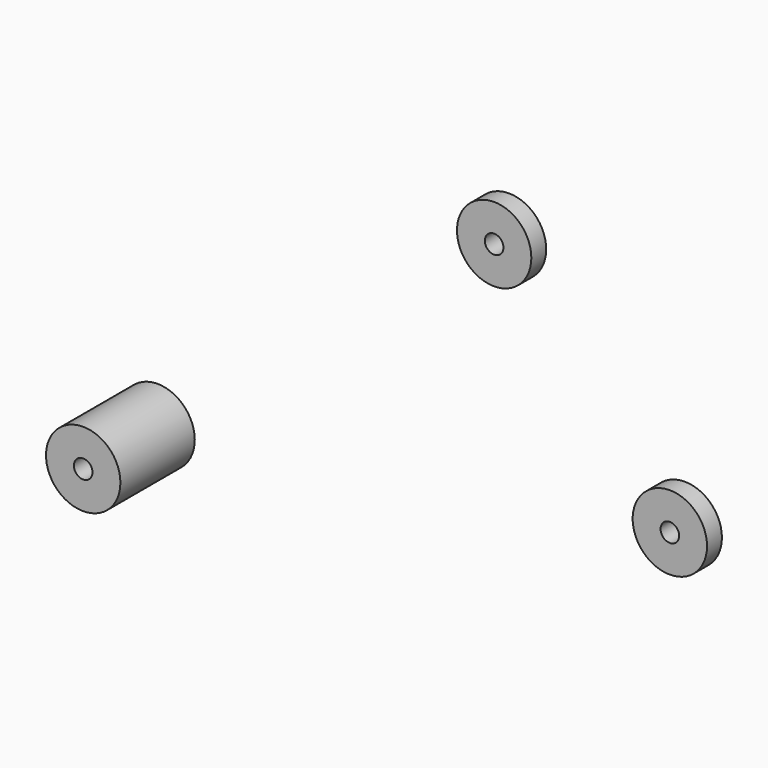
from build123d import *

# Parameters (mm, degrees)
F0_R     = 4
F0_R_2   = 1
F1_DEPTH = 2
F2_R     = 4
F2_R_2   = 1
F3_DEPTH = 10
F4_R     = 4
F4_R_2   = 1
F5_DEPTH = 2


with BuildPart() as f1:
    # F0 (on Front) → F1 (new body)
    with BuildSketch(Plane.XZ):
        Circle(F0_R)
        Circle(F0_R_2, mode=Mode.SUBTRACT)
    extrude(amount=F1_DEPTH)


with BuildPart() as f3:
    # F2 (on Front) → F3 (new body)
    with BuildSketch(Plane.XZ):
        with Locations((-37.800003, -30.330002)):
            Circle(F2_R)
        with Locations((-37.800003, -30.330002)):
            Circle(F2_R_2, mode=Mode.SUBTRACT)
    extrude(amount=F3_DEPTH)


with BuildPart() as f5:
    # F4 (on Front) → F5 (new body)
    with BuildSketch(Plane.XZ):
        with Locations((18.900001, -21.150002)):
            Circle(F4_R)
        with Locations((18.900001, -21.150002)):
            Circle(F4_R_2, mode=Mode.SUBTRACT)
    extrude(amount=F5_DEPTH)


solid = Compound([f1.part, f3.part, f5.part])
